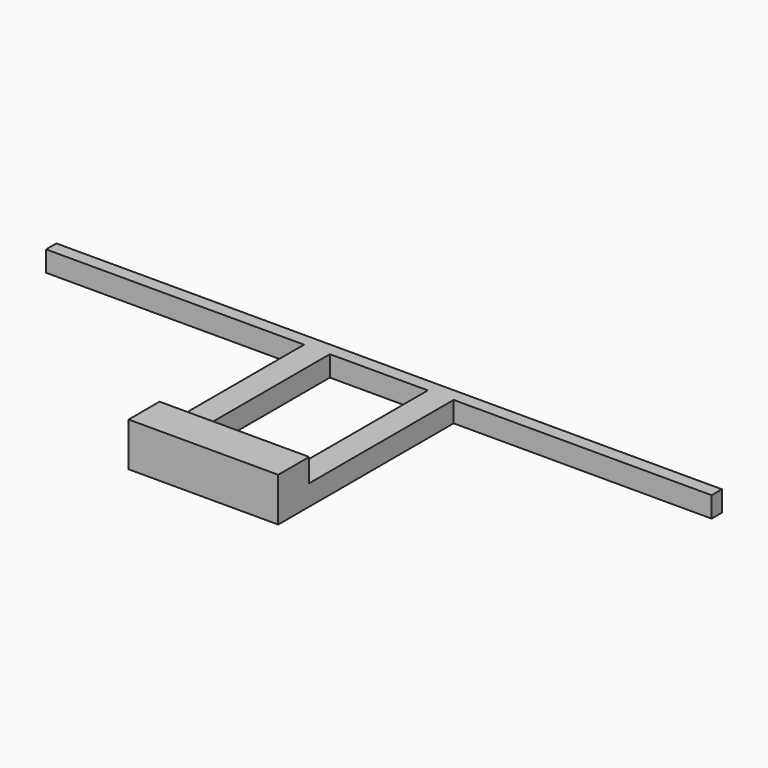
from build123d import *

# Parameters (mm, degrees)
SKETCH_W     = 38
SKETCH_H     = 70
PAD_DEPTH    = 8
SKETCH001_W  = 58
SKETCH001_H  = 15
PAD001_DEPTH = 9


with BuildPart() as part:
    # Sketch → Pad (new body)
    with BuildSketch(Plane.XY):
        Polygon((258, 0), (258, 5), (0, 5), (0, 0), (100, 0), (100, -85), (110, -85), (148, -85), (158, -85), (158, 0), align=None)
        with Locations((129, -35)):
            Rectangle(SKETCH_W, SKETCH_H, mode=Mode.SUBTRACT)
    extrude(amount=PAD_DEPTH)

    # Sketch001 (on Face16 of Pad) → Pad001 (join)
    with BuildSketch(Plane.XY.offset(8)):
        with Locations((129, -77.5)):
            Rectangle(SKETCH001_W, SKETCH001_H)
    extrude(amount=PAD001_DEPTH)


solid = part.part
